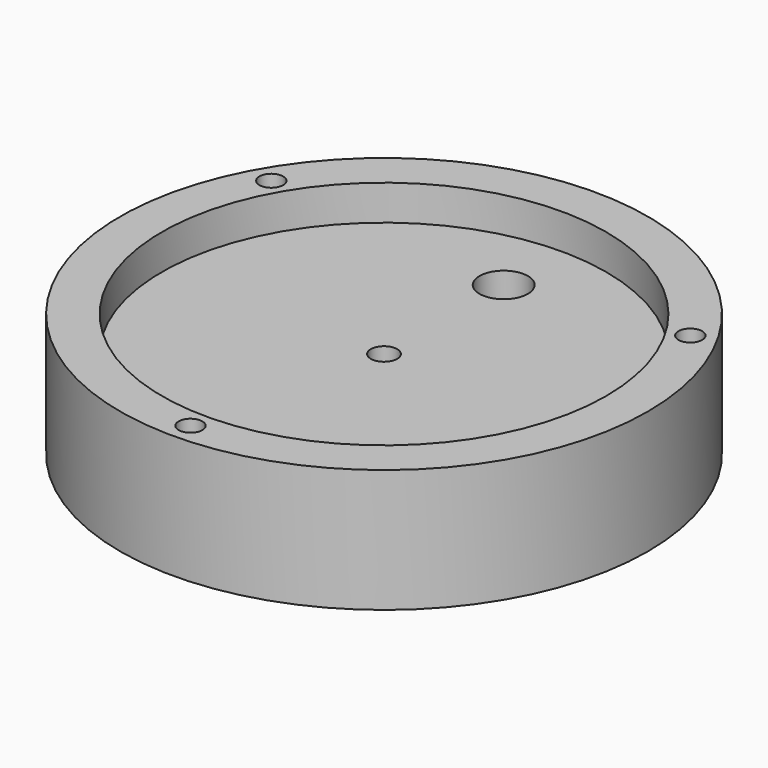
from build123d import *

# Parameters (mm, degrees)
F0_R      = 30
F1_DEPTH  = 9
F2_R      = 25.25
F3_DEPTH  = 4
F4_R      = 1.5
F5_DEPTH  = 9.001
F6_R      = 1.35
F7_DEPTH  = 9.001
F8_R      = 2.75
F9_DEPTH  = 5.001
F10_R     = 30
F10_R_2   = 20
F11_DEPTH = 5
F12_W     = 30
F12_H     = 24.764763
F13_DEPTH = 5


with BuildPart() as f1:
    # F0 (on Top) → F1 (new body)
    with BuildSketch(Plane.XY):
        Circle(F0_R)
    extrude(amount=F1_DEPTH)

    # F2 (on face) → F3 (cut)
    with BuildSketch(Plane.XY.offset(9)):
        Circle(F2_R)
    extrude(amount=-F3_DEPTH, mode=Mode.SUBTRACT)

    # F4 (on Top) → F5 (cut, through all)
    with BuildSketch(Plane.XY):
        Circle(F4_R)
    extrude(amount=F5_DEPTH, mode=Mode.SUBTRACT)

    # F6 (on face) → F7 (cut, through all)
    with BuildSketch(Plane.XY.offset(9)):
        with Locations((23.815699, 13.75)):
            Circle(F6_R)
        with Locations((0, -27.5)):
            Circle(F6_R)
        with Locations((-23.815699, 13.75)):
            Circle(F6_R)
    extrude(amount=-F7_DEPTH, mode=Mode.SUBTRACT)

    # F8 (on face) → F9 (cut, through all)
    with BuildSketch(Plane.XY.offset(5)):
        with Locations((0, 17)):
            Circle(F8_R)
    extrude(amount=-F9_DEPTH, mode=Mode.SUBTRACT)

    # F10 (on face) → F11 (join)
    with BuildSketch(Plane(origin=(0, 0, 0), x_dir=(1, 0, 0), z_dir=(0, 0, -1))):
        Circle(F10_R)
        Circle(F10_R_2, mode=Mode.SUBTRACT)
    extrude(amount=F11_DEPTH)

    # F12 (on Top) → F13 (cut)
    with BuildSketch(Plane.XY):
        with Locations((0, 20.9111)):
            Rectangle(F12_W, F12_H)
    extrude(amount=-F13_DEPTH, mode=Mode.SUBTRACT)


solid = f1.part
